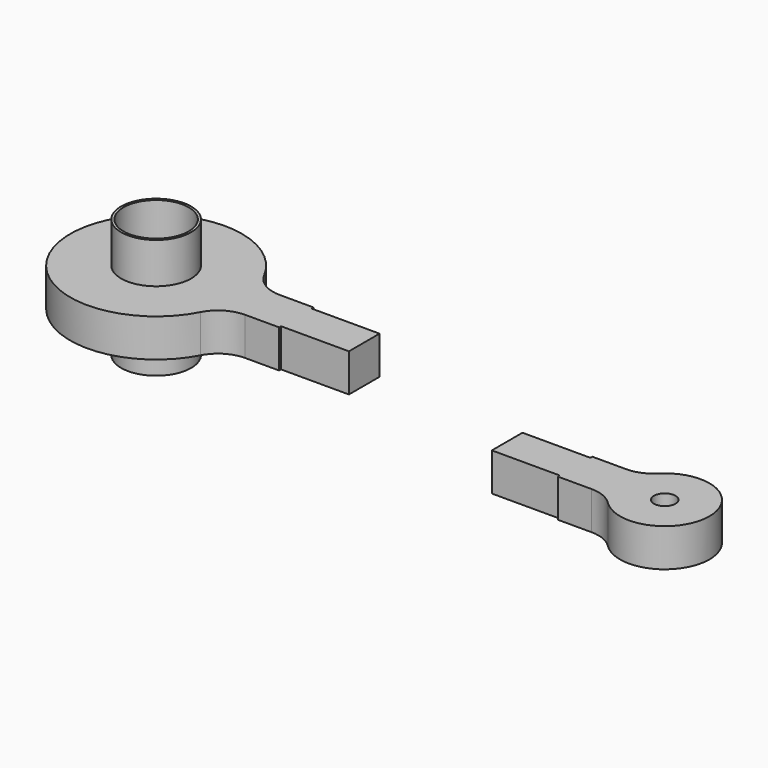
from build123d import *

# Parameters (mm, degrees)
F0_R     = 5.159375
F0_R_2   = 4.803775
F1_DEPTH = 17.6
F2_R     = 5.159375
F3_DEPTH = 5.6
F2_R_2   = 1.5875


with BuildPart() as f1:
    # F0 (on Top) → F1 (new body)
    with BuildSketch(Plane.XY):
        Circle(F0_R)
        Circle(F0_R_2, mode=Mode.SUBTRACT)
    extrude(amount=F1_DEPTH)


with BuildPart() as f3:
    # F2 (on Top) → F3 (new body)
    with BuildSketch(Plane.XY):
        with BuildLine():
            ThreePointArc((15.6532073516, 3.175), (13.0621817718, 3.8987181518), (11.2212250896, 5.860365422))
            ThreePointArc((11.2212250896, 5.860365422), (-12.659375, 0), (11.2212250896, -5.860365422))
            ThreePointArc((11.2212250896, -5.860365422), (13.0621817718, -3.8987181518), (15.6532073516, -3.175))
            Line((15.6532073516, -3.175), (20.6532073516, -3.175))
            Line((20.6532073516, -3.175), (20.6532073516, -2.8194))
            Line((20.6532073516, -2.8194), (30.6532073516, -2.8194))
            Line((30.6532073516, -2.8194), (30.6532073516, 2.8194))
            Line((30.6532073516, 2.8194), (20.6532073516, 2.8194))
            Line((20.6532073516, 2.8194), (20.6532073516, 3.175))
            Line((20.6532073516, 3.175), (15.6532073516, 3.175))
        make_face()
        Circle(F2_R, mode=Mode.SUBTRACT)
    extrude(amount=F3_DEPTH)


with BuildPart() as f3b:
    # F2 (on Top) → F3, piece 2 (new body)
    with BuildSketch(Plane.XY):
        with BuildLine():
            Line((61.7071763033, 2.8194), (51.7071763033, 2.8194))
            Line((51.7071763033, 2.8194), (51.7071763033, -2.8194))
            Line((51.7071763033, -2.8194), (61.7071763033, -2.8194))
            Line((61.7071763033, -2.8194), (61.7071763033, -3.175))
            Line((61.7071763033, -3.175), (66.7071763033, -3.175))
            ThreePointArc((66.7071763033, -3.175), (68.6258294177, -3.5577746182), (70.2507178468, -4.6474919094))
            ThreePointArc((70.2507178468, -4.6474919094), (81.5068338304, 0), (70.2507178468, 4.6474919094))
            ThreePointArc((70.2507178468, 4.6474919094), (68.6258294177, 3.5577746182), (66.7071763033, 3.175))
            Line((66.7071763033, 3.175), (61.7071763033, 3.175))
            Line((61.7071763033, 3.175), (61.7071763033, 2.8194))
        make_face()
        with Locations((74.9193338304, 0)):
            Circle(F2_R_2, mode=Mode.SUBTRACT)
    extrude(amount=F3_DEPTH)


with BuildPart() as f3_1:
    # F4: moved
    add(f3.part.moved(Location((0, 0, 6))))


solid = Compound([f1.part, f3b.part, f3_1.part])
